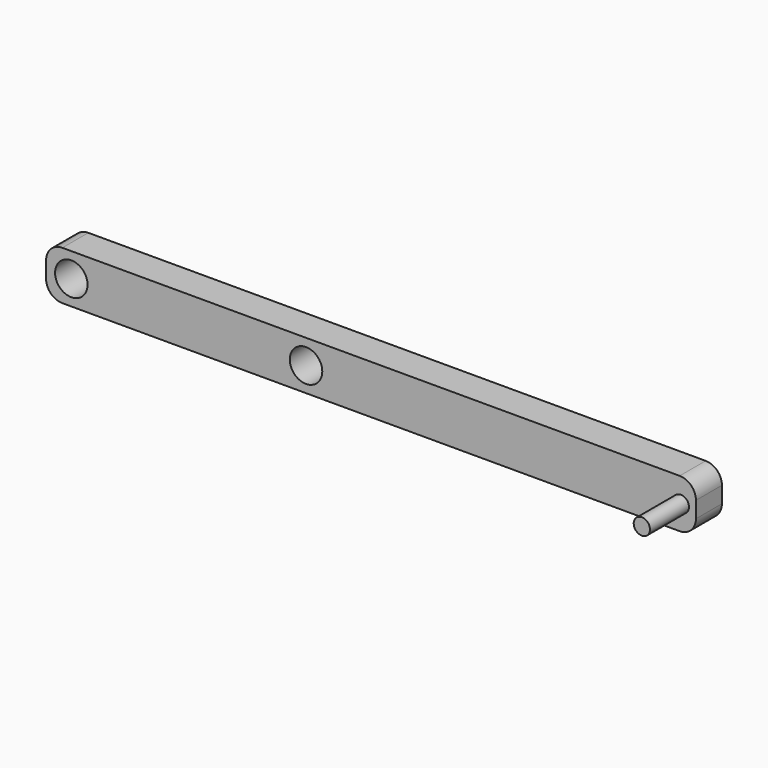
from build123d import *

# Parameters (mm, degrees)
F0_R     = 5
F1_DEPTH = 10
F2_R     = 2.5
F3_DEPTH = 15


with BuildPart() as f1:
    # F0 (on Front) → F1 (new body)
    with BuildSketch(Plane.XZ):
        with BuildLine():
            ThreePointArc((0, 5), (1.464466, 1.464466), (5, 0))
            Line((5, 0), (195, 0))
            ThreePointArc((195, 0), (198.535534, 1.464466), (200, 5))
            Line((200, 5), (200, 10))
            ThreePointArc((200, 10), (198.535534, 13.535534), (195, 15))
            Line((195, 15), (5, 15))
            ThreePointArc((5, 15), (1.464466, 13.535534), (0, 10))
            Line((0, 10), (0, 5))
        make_face()
        with Locations((7.767204, 7.5)):
            Circle(F0_R, mode=Mode.SUBTRACT)
        with Locations((80, 7.5)):
            Circle(F0_R, mode=Mode.SUBTRACT)
    extrude(amount=F1_DEPTH)

    # F2 (on face) → F3 (join)
    with BuildSketch(Plane.XZ.offset(10)):
        with Locations((195.353363, 7.5)):
            Circle(F2_R)
    extrude(amount=F3_DEPTH)


solid = f1.part
